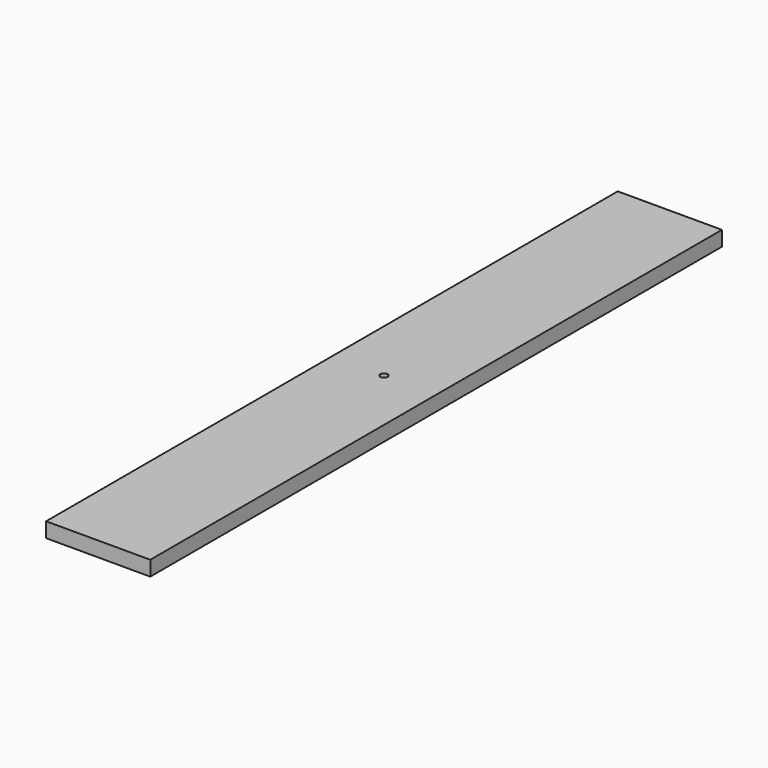
from build123d import *

# Parameters (mm, degrees)
F0_W     = 88.9
F0_H     = 609.6
F1_DEPTH = 12.7
F3_DEPTH = 25.4


with BuildPart() as f1:
    # F0 (on Top) → F1 (new body)
    with BuildSketch(Plane.XY):
        with Locations((-34.753129, 109.522756)):
            Rectangle(F0_W, F0_H)
    extrude(amount=F1_DEPTH)

    # F2 (on face) → F3 (cut)
    with BuildSketch(Plane.XY.offset(12.7)):
        with BuildLine():
            ThreePointArc((-37.928129, 109.522756), (-36.998193, 107.277692), (-34.753129, 106.347756))
            Line((-34.753129, 106.347756), (-34.753129, 109.522756))
            Line((-34.753129, 109.522756), (-37.928129, 109.522756))
        make_face()
        with BuildLine():
            Line((-34.753129, 109.522756), (-34.753129, 106.347756))
            ThreePointArc((-34.753129, 106.347756), (-32.508065, 107.277692), (-31.578129, 109.522756))
            Line((-31.578129, 109.522756), (-34.753129, 109.522756))
        make_face()
        with BuildLine():
            Line((-37.928129, 109.522756), (-34.753129, 109.522756))
            Line((-34.753129, 109.522756), (-34.753129, 112.697756))
            ThreePointArc((-34.753129, 112.697756), (-36.998193, 111.767821), (-37.928129, 109.522756))
        make_face()
        with BuildLine():
            Line((-34.753129, 112.697756), (-34.753129, 109.522756))
            Line((-34.753129, 109.522756), (-31.578129, 109.522756))
            ThreePointArc((-31.578129, 109.522756), (-32.508065, 111.767821), (-34.753129, 112.697756))
        make_face()
    extrude(amount=-F3_DEPTH, mode=Mode.SUBTRACT)


solid = f1.part
